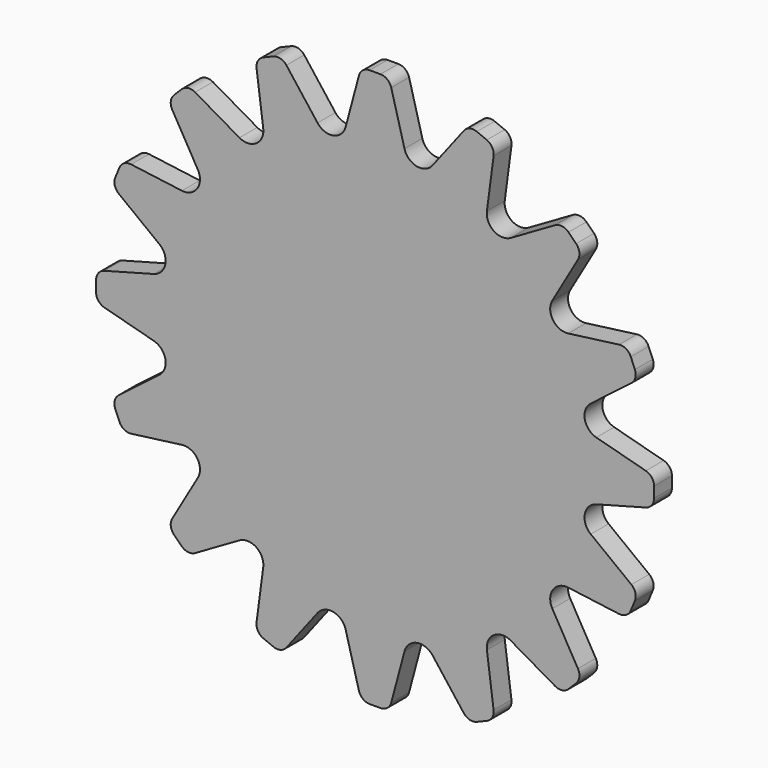
from build123d import *

# Parameters (mm, degrees)
F1_DEPTH = 2.54


with BuildPart() as f1:
    # F0 (on Front) → F1 (new body)
    with BuildSketch(Plane.XZ):
        with BuildLine():
            Line((0.612995, 31.75), (-0.612995, 31.75))
            ThreePointArc((-0.612995, 31.75), (-1.386122, 31.487559), (-1.839721, 30.8087))
            Line((-1.839721, 30.8087), (-3.348373, 25.178332))
            ThreePointArc((-3.348373, 25.178332), (-4.747603, 23.86781), (-6.541837, 24.543112))
            Line((-6.541837, 24.543112), (-10.090299, 29.167558))
            ThreePointArc((-10.090299, 29.167558), (-10.769158, 29.621157), (-11.583866, 29.567758))
            Line((-11.583866, 29.567758), (-12.716532, 29.098592))
            ThreePointArc((-12.716532, 29.098592), (-13.330377, 28.560265), (-13.489659, 27.759497))
            Line((-13.489659, 27.759497), (-12.728824, 21.980379))
            ThreePointArc((-12.728824, 21.980379), (-13.520029, 20.234153), (-15.436112, 20.171427))
            Line((-15.436112, 20.171427), (-20.484162, 23.08592))
            ThreePointArc((-20.484162, 23.08592), (-21.28493, 23.245202), (-22.017188, 22.884093))
            Line((-22.017188, 22.884093), (-22.884093, 22.017188))
            ThreePointArc((-22.884093, 22.017188), (-23.245202, 21.28493), (-23.08592, 20.484162))
            Line((-23.08592, 20.484162), (-20.171427, 15.436112))
            ThreePointArc((-20.171427, 15.436112), (-20.234153, 13.520029), (-21.980379, 12.728824))
            Line((-21.980379, 12.728824), (-27.759497, 13.489659))
            ThreePointArc((-27.759497, 13.489659), (-28.560265, 13.330377), (-29.098592, 12.716532))
            Line((-29.098592, 12.716532), (-29.567758, 11.583866))
            ThreePointArc((-29.567758, 11.583866), (-29.621157, 10.769158), (-29.167558, 10.090299))
            Line((-29.167558, 10.090299), (-24.543112, 6.541837))
            ThreePointArc((-24.543112, 6.541837), (-23.86781, 4.747603), (-25.178332, 3.348373))
            Line((-25.178332, 3.348373), (-30.8087, 1.839721))
            ThreePointArc((-30.8087, 1.839721), (-31.487559, 1.386122), (-31.75, 0.612995))
            Line((-31.75, 0.612995), (-31.75, -0.612995))
            ThreePointArc((-31.75, -0.612995), (-31.487559, -1.386122), (-30.8087, -1.839721))
            Line((-30.8087, -1.839721), (-25.178332, -3.348373))
            ThreePointArc((-25.178332, -3.348373), (-23.86781, -4.747603), (-24.543112, -6.541837))
            Line((-24.543112, -6.541837), (-29.167558, -10.090299))
            ThreePointArc((-29.167558, -10.090299), (-29.621157, -10.769158), (-29.567758, -11.583866))
            Line((-29.567758, -11.583866), (-29.098592, -12.716532))
            ThreePointArc((-29.098592, -12.716532), (-28.560265, -13.330377), (-27.759497, -13.489659))
            Line((-27.759497, -13.489659), (-21.980379, -12.728824))
            ThreePointArc((-21.980379, -12.728824), (-20.234153, -13.520029), (-20.171427, -15.436112))
            Line((-20.171427, -15.436112), (-23.08592, -20.484162))
            ThreePointArc((-23.08592, -20.484162), (-23.245202, -21.28493), (-22.884093, -22.017188))
            Line((-22.884093, -22.017188), (-22.017188, -22.884093))
            ThreePointArc((-22.017188, -22.884093), (-21.28493, -23.245202), (-20.484162, -23.08592))
            Line((-20.484162, -23.08592), (-15.436112, -20.171427))
            ThreePointArc((-15.436112, -20.171427), (-13.520029, -20.234153), (-12.728824, -21.980379))
            Line((-12.728824, -21.980379), (-13.489659, -27.759497))
            ThreePointArc((-13.489659, -27.759497), (-13.330377, -28.560265), (-12.716532, -29.098592))
            Line((-12.716532, -29.098592), (-11.583866, -29.567758))
            ThreePointArc((-11.583866, -29.567758), (-10.769158, -29.621157), (-10.090299, -29.167558))
            Line((-10.090299, -29.167558), (-6.541837, -24.543112))
            ThreePointArc((-6.541837, -24.543112), (-4.747603, -23.86781), (-3.348373, -25.178332))
            Line((-3.348373, -25.178332), (-1.839721, -30.8087))
            ThreePointArc((-1.839721, -30.8087), (-1.386122, -31.487559), (-0.612995, -31.75))
            Line((-0.612995, -31.75), (0.612995, -31.75))
            ThreePointArc((0.612995, -31.75), (1.386122, -31.487559), (1.839721, -30.8087))
            Line((1.839721, -30.8087), (3.348373, -25.178332))
            ThreePointArc((3.348373, -25.178332), (4.747603, -23.86781), (6.541837, -24.543112))
            Line((6.541837, -24.543112), (10.090299, -29.167558))
            ThreePointArc((10.090299, -29.167558), (10.769158, -29.621157), (11.583866, -29.567758))
            Line((11.583866, -29.567758), (12.716532, -29.098592))
            ThreePointArc((12.716532, -29.098592), (13.330377, -28.560265), (13.489659, -27.759497))
            Line((13.489659, -27.759497), (12.728824, -21.980379))
            ThreePointArc((12.728824, -21.980379), (13.520029, -20.234153), (15.436112, -20.171427))
            Line((15.436112, -20.171427), (20.484162, -23.08592))
            ThreePointArc((20.484162, -23.08592), (21.28493, -23.245202), (22.017188, -22.884093))
            Line((22.017188, -22.884093), (22.884093, -22.017188))
            ThreePointArc((22.884093, -22.017188), (23.245202, -21.28493), (23.08592, -20.484162))
            Line((23.08592, -20.484162), (20.171427, -15.436112))
            ThreePointArc((20.171427, -15.436112), (20.234153, -13.520029), (21.980379, -12.728824))
            Line((21.980379, -12.728824), (27.759497, -13.489659))
            ThreePointArc((27.759497, -13.489659), (28.560265, -13.330377), (29.098592, -12.716532))
            Line((29.098592, -12.716532), (29.567758, -11.583866))
            ThreePointArc((29.567758, -11.583866), (29.621157, -10.769158), (29.167558, -10.090299))
            Line((29.167558, -10.090299), (24.543112, -6.541837))
            ThreePointArc((24.543112, -6.541837), (23.86781, -4.747603), (25.178332, -3.348373))
            Line((25.178332, -3.348373), (30.8087, -1.839721))
            ThreePointArc((30.8087, -1.839721), (31.487559, -1.386122), (31.75, -0.612995))
            Line((31.75, -0.612995), (31.75, 0.612995))
            ThreePointArc((31.75, 0.612995), (31.487559, 1.386122), (30.8087, 1.839721))
            Line((30.8087, 1.839721), (25.178332, 3.348373))
            ThreePointArc((25.178332, 3.348373), (23.86781, 4.747603), (24.543112, 6.541837))
            Line((24.543112, 6.541837), (29.167558, 10.090299))
            ThreePointArc((29.167558, 10.090299), (29.621157, 10.769158), (29.567758, 11.583866))
            Line((29.567758, 11.583866), (29.098592, 12.716532))
            ThreePointArc((29.098592, 12.716532), (28.560265, 13.330377), (27.759497, 13.489659))
            Line((27.759497, 13.489659), (21.980379, 12.728824))
            ThreePointArc((21.980379, 12.728824), (20.234153, 13.520029), (20.171427, 15.436112))
            Line((20.171427, 15.436112), (23.08592, 20.484162))
            ThreePointArc((23.08592, 20.484162), (23.245202, 21.28493), (22.884093, 22.017188))
            Line((22.884093, 22.017188), (22.017188, 22.884093))
            ThreePointArc((22.017188, 22.884093), (21.28493, 23.245202), (20.484162, 23.08592))
            Line((20.484162, 23.08592), (15.436112, 20.171427))
            ThreePointArc((15.436112, 20.171427), (13.520029, 20.234153), (12.728824, 21.980379))
            Line((12.728824, 21.980379), (13.489659, 27.759497))
            ThreePointArc((13.489659, 27.759497), (13.330377, 28.560265), (12.716532, 29.098592))
            Line((12.716532, 29.098592), (11.583866, 29.567758))
            ThreePointArc((11.583866, 29.567758), (10.769158, 29.621157), (10.090299, 29.167558))
            Line((10.090299, 29.167558), (6.541837, 24.543112))
            ThreePointArc((6.541837, 24.543112), (4.747603, 23.86781), (3.348373, 25.178332))
            Line((3.348373, 25.178332), (1.839721, 30.8087))
            ThreePointArc((1.839721, 30.8087), (1.386122, 31.487559), (0.612995, 31.75))
        make_face()
    extrude(amount=F1_DEPTH)


solid = f1.part
